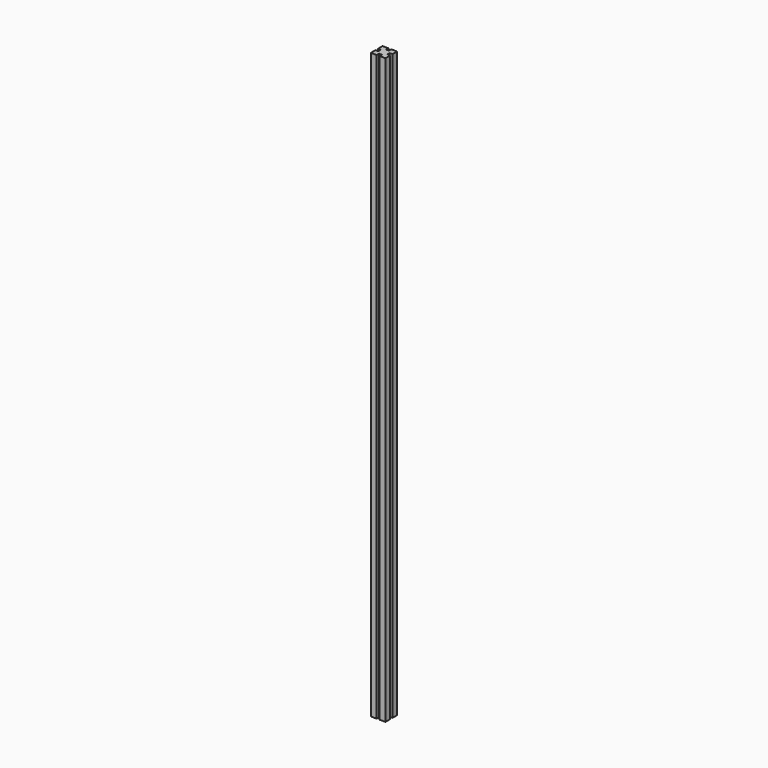
from build123d import *

# Parameters (mm, degrees)
F1_DEPTH = 508


with BuildPart() as f1:
    # F0 (on Top) → F1 (new body)
    with BuildSketch(Plane.XY):
        Polygon((-1.27, 6.35), (-6.35, 6.35), (-6.35, 1.27), (-3.81, 1.27), (-3.81, -1.27), (-6.35, -1.27), (-6.35, -6.35), (-1.27, -6.35), (-1.27, -3.81), (1.27, -3.81), (1.27, -6.35), (6.35, -6.35), (6.35, -1.27), (3.81, -1.27), (3.81, 1.27), (6.35, 1.27), (6.35, 6.35), (1.27, 6.35), (1.27, 3.81), (-1.27, 3.81), align=None)
    extrude(amount=F1_DEPTH)


solid = f1.part
